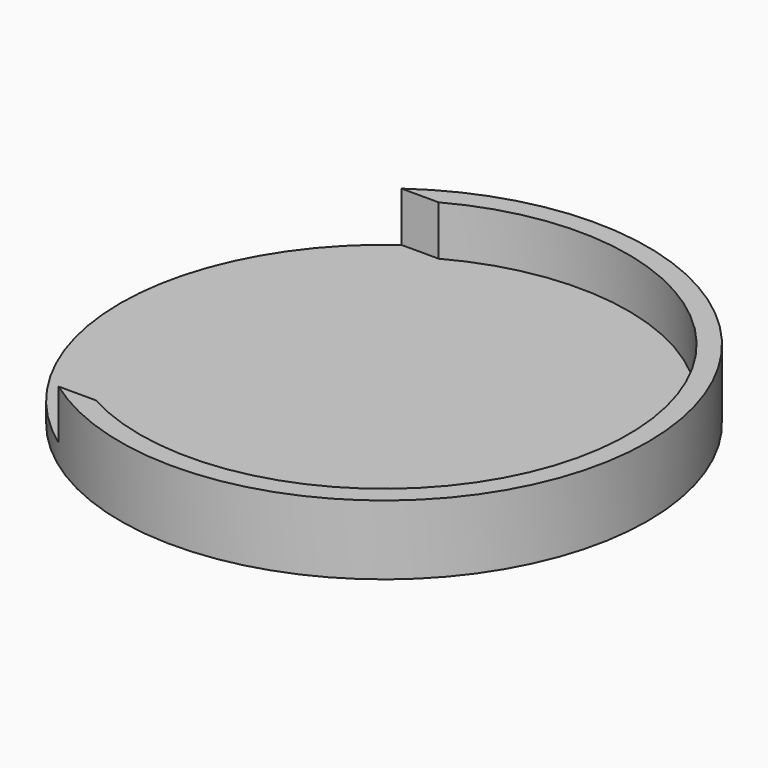
from build123d import *

# Parameters (mm, degrees)
F2_R        = 42.2275
F0_DEPTH    = 11.1125
F3_T        = -3.175
F0_FACE_R   = 42.2275
F0_FACE_R_2 = 39.0525
F4_DEPTH    = 25.4


with BuildPart() as f0:
    # F2 (on Top) → F0 (new body)
    with BuildSketch(Plane.XY):
        Circle(F2_R)
    extrude(amount=-F0_DEPTH)

    # F3
    f3_openings = [f0.faces().sort_by_distance(p)[0] for p in [
        (0, 0, 0),
    ]]
    offset(amount=F3_T, openings=f3_openings)

    # F1 (on face) + F0_face (on face) → F4 (cut)
    with BuildSketch(Plane.XY.offset(-7.9375)):
        with BuildLine():
            ThreePointArc((-18.689399569, -34.29), (-39.0525, 0), (-18.689399569, 34.29))
            Line((-18.689399569, 34.29), (-44.45, 34.29))
            Line((-44.45, 34.29), (-44.45, -34.29))
            Line((-44.45, -34.29), (-18.689399569, -34.29))
        make_face()
        with BuildLine():
            ThreePointArc((-5.9242471252, -34.29), (-34.798, 0), (-5.9242471252, 34.29))
            Line((-5.9242471252, 34.29), (-18.689399569, 34.29))
            ThreePointArc((-18.689399569, 34.29), (-39.0525, 0), (-18.689399569, -34.29))
            Line((-18.689399569, -34.29), (-5.9242471252, -34.29))
        make_face()
        with BuildLine():
            Line((0, 34.29), (-5.9242471252, 34.29))
            ThreePointArc((-5.9242471252, 34.29), (-34.798, 0), (-5.9242471252, -34.29))
            Line((-5.9242471252, -34.29), (0, -34.29))
            ThreePointArc((0, -34.29), (-34.29, 0), (0, 34.29))
        make_face()
    with BuildSketch(Plane.XY):
        Circle(F0_FACE_R)
        Circle(F0_FACE_R_2, mode=Mode.SUBTRACT)
    extrude(amount=F4_DEPTH, mode=Mode.SUBTRACT)


solid = f0.part
